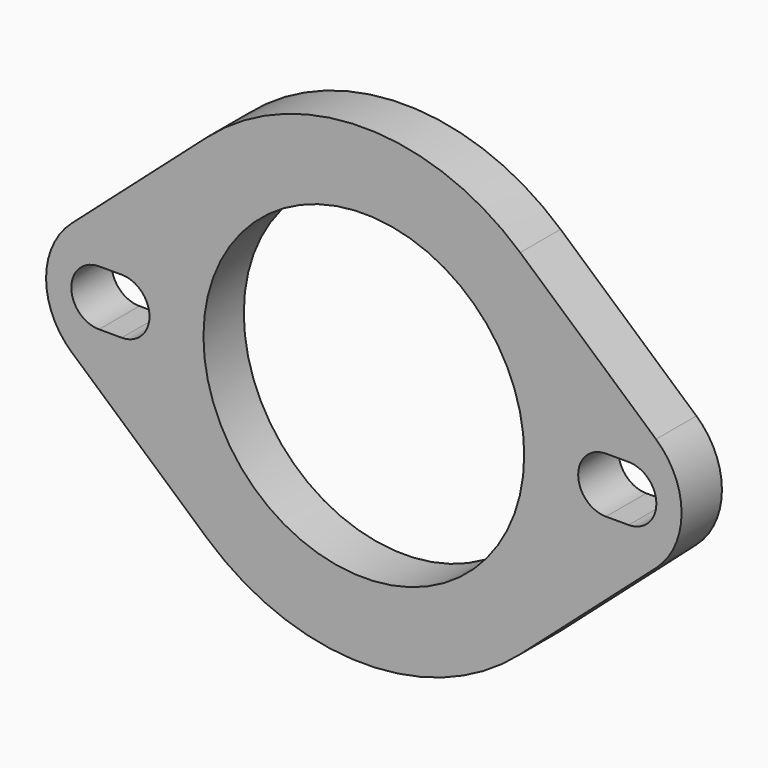
from build123d import *

# Parameters (mm, degrees)
F0_R     = 31.8
F1_DEPTH = 10


with BuildPart() as f1:
    # F0 (on Front) → F1 (new body)
    with BuildSketch(Plane.XZ):
        with BuildLine():
            Line((15.0625, 45.564071), (41.995, 21.743902))
            ThreePointArc((41.995, 21.743902), (73, 10), (104.005, 21.743902))
            Line((104.005, 21.743902), (130.9375, 45.564071))
            ThreePointArc((130.9375, 45.564071), (136, 56.8), (130.9375, 68.035929))
            Line((130.9375, 68.035929), (104.005, 91.856098))
            ThreePointArc((104.005, 91.856098), (73, 103.6), (41.995, 91.856098))
            Line((41.995, 91.856098), (15.0625, 68.035929))
            ThreePointArc((15.0625, 68.035929), (10, 56.8), (15.0625, 45.564071))
        make_face()
        with BuildLine():
            ThreePointArc((25, 62.3), (30.5, 56.8), (25, 51.3))
            Line((25, 51.3), (20.5, 51.3))
            ThreePointArc((20.5, 51.3), (15, 56.8), (20.5, 62.3))
            Line((20.5, 62.3), (25, 62.3))
        make_face(mode=Mode.SUBTRACT)
        with Locations((73, 56.8)):
            Circle(F0_R, mode=Mode.SUBTRACT)
        with BuildLine():
            Line((125.5, 51.3), (121, 51.3))
            ThreePointArc((121, 51.3), (115.5, 56.8), (121, 62.3))
            Line((121, 62.3), (125.5, 62.3))
            ThreePointArc((125.5, 62.3), (131, 56.8), (125.5, 51.3))
        make_face(mode=Mode.SUBTRACT)
    extrude(amount=-F1_DEPTH)


solid = f1.part
